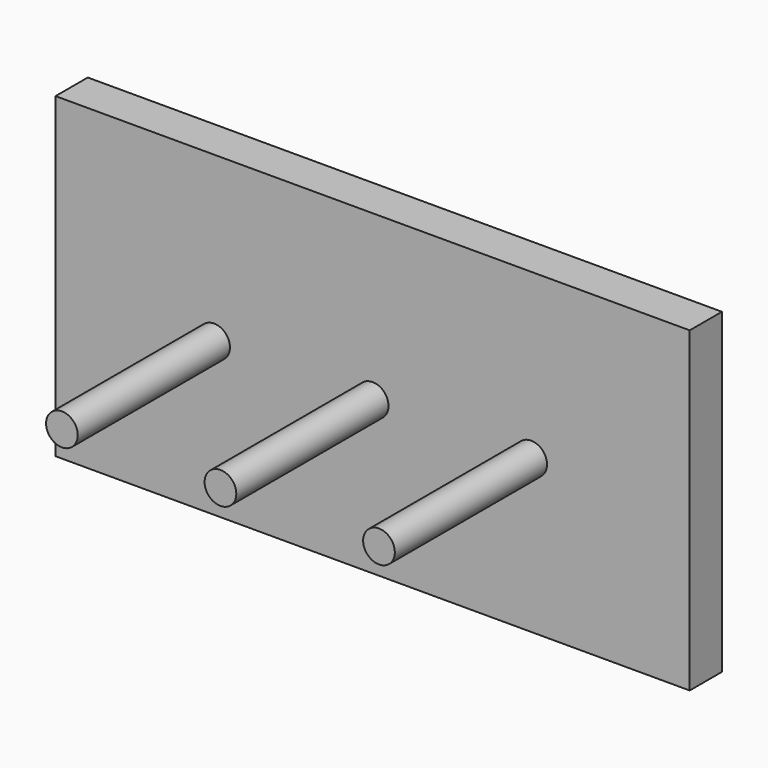
from build123d import *

# Parameters (mm, degrees)
F0_W     = 400
F0_H     = 200
F1_DEPTH = 25.4
F2_R     = 10
F3_DEPTH = 120


with BuildPart() as f1:
    # F0 (on Front) → F1 (new body)
    with BuildSketch(Plane.XZ):
        with Locations((-35.917602, 3.756338)):
            Rectangle(F0_W, F0_H)
    extrude(amount=F1_DEPTH)

    # F2 (on face) → F3 (join)
    with BuildSketch(Plane.XZ.offset(25.4)):
        with Locations((-135.917602, 0)):
            Circle(F2_R)
        with Locations((-35.917602, 0)):
            Circle(F2_R)
        with Locations((64.082398, 0)):
            Circle(F2_R)
    extrude(amount=F3_DEPTH)


solid = f1.part
